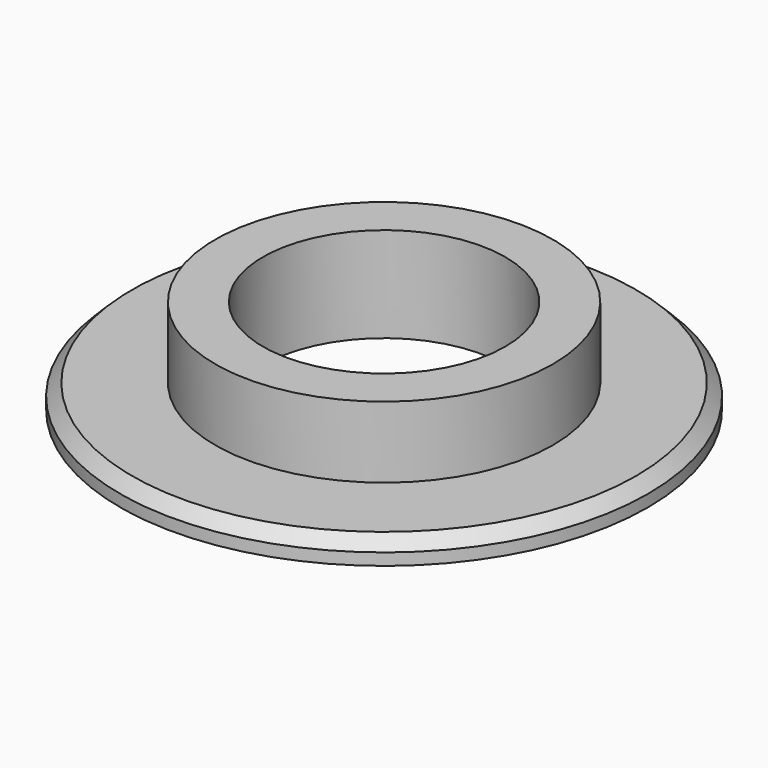
from build123d import *

# Parameters (mm, degrees)
F0_R     = 7.1
F0_R_2   = 5.1
F0_R_3   = 1.6
F1_DEPTH = 4
F2_DEPTH = 8.2
F0_R_4   = 11.1
F3_DEPTH = 1
F4_SIZE  = 0.5


with BuildPart() as f1:
    # F0 (on Top) → F1 (new body)
    with BuildSketch(Plane.XY):
        Circle(F0_R)
        Circle(F0_R_2, mode=Mode.SUBTRACT)
        Circle(F0_R_2)
        Circle(F0_R_3, mode=Mode.SUBTRACT)
    extrude(amount=F1_DEPTH)

    # F0 (on Top) → F2 (cut)
    with BuildSketch(Plane.XY):
        Circle(F0_R_2)
        Circle(F0_R_3, mode=Mode.SUBTRACT)
    extrude(amount=F2_DEPTH, mode=Mode.SUBTRACT)

    # F0 (on Top) → F3 (join)
    with BuildSketch(Plane.XY):
        Circle(F0_R_4)
        Circle(F0_R, mode=Mode.SUBTRACT)
    extrude(amount=F3_DEPTH)

    # F4
    f4_edges = [f1.edges().sort_by_distance(p)[0] for p in [
        (-11.1, 0, 1),
    ]]
    chamfer(f4_edges, length=F4_SIZE)


solid = f1.part
